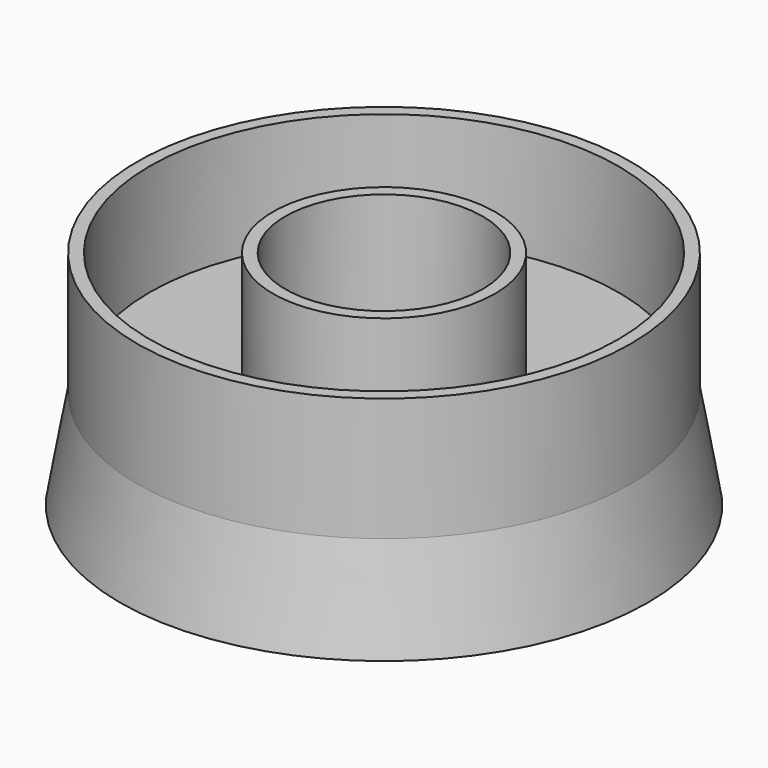
from build123d import *

# Parameters (mm, degrees)
F0_R     = 50
F0_R_2   = 20
F1_DEPTH = 25
F3_T     = -2.5
F4_R     = 50
F5_DEPTH = 20
F5_TAPER = -10
F6_D     = 4.2


with BuildPart() as f1:
    # F0 (on Top) → F1 (new body)
    with BuildSketch(Plane.XY):
        Circle(F0_R)
        Circle(F0_R_2, mode=Mode.SUBTRACT)
    extrude(amount=F1_DEPTH)

    # F3
    f3_openings = [f1.faces().sort_by_distance(p)[0] for p in [
        (-48.585786, 0, 25),
    ]]
    offset(amount=F3_T, openings=f3_openings)

    # F4 (on face) → F5 (join)
    with BuildSketch(Plane(origin=(0, 0, 0), x_dir=(1, 0, 0), z_dir=(0, 0, -1))):
        Circle(F4_R)
    extrude(amount=F5_DEPTH, taper=F5_TAPER)

    # F6 (through all)
    with Locations(Plane.XY.offset(25)):
        with Locations((-12.0698269457, -35.4231074452)):
            Hole(F6_D / 2)


solid = f1.part
